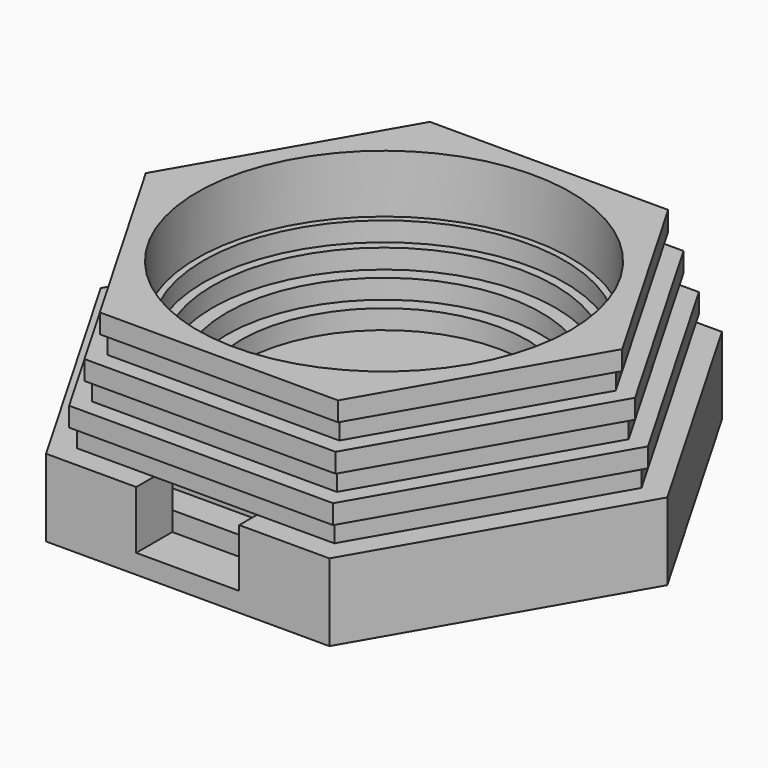
from build123d import *

# Parameters (mm, degrees)
PAD_DEPTH       = 9
SKETCH001_W     = 26.1
SKETCH001_H     = 34.4
POCKET_DEPTH    = 3
SKETCH002_R     = 22.22
PAD001_DEPTH    = 3
SKETCH003_R     = 24.44
PAD002_DEPTH    = 3
SKETCH004_R     = 26.6
PAD003_DEPTH    = 3
SKETCH005_R     = 28
PAD004_DEPTH    = 3
SKETCH006_R     = 29
PAD005_DEPTH    = 3
SKETCH007_R     = 29
PAD006_DEPTH    = 3
SKETCH008_R     = 29
PAD007_DEPTH    = 3
SKETCH009_W     = 17
SKETCH009_H     = 24
POCKET001_DEPTH = 3
SKETCH010_W     = 16
SKETCH010_H     = 9
POCKET002_DEPTH = 7


with BuildPart() as part:
    # Sketch → Pad (new body)
    with BuildSketch(Plane.XY):
        Polygon((44, 0), (22, 38.105118), (-22, 38.105118), (-44, 0), (-22, -38.105118), (22, -38.105118), align=None)
    extrude(amount=PAD_DEPTH)

    # Sketch001 (on Face8 of Pad) → Pocket (cut)
    with BuildSketch(Plane.XY.offset(9)):
        with Locations((0, -13.905118)):
            Rectangle(SKETCH001_W, SKETCH001_H)
    extrude(amount=-POCKET_DEPTH, mode=Mode.SUBTRACT)

    # Sketch002 (on Face5 of Pocket) → Pad001 (join)
    with BuildSketch(Plane.XY.offset(9)):
        Polygon((22, 38.105118), (-22, 38.105118), (-44, 0), (-22, -38.105118), (22, -38.105118), (44, 0), align=None)
        Circle(SKETCH002_R, mode=Mode.SUBTRACT)
    extrude(amount=PAD001_DEPTH)

    # Sketch003 (on Face14 of Pad001) → Pad002 (join)
    with BuildSketch(Plane.XY.offset(12)):
        Polygon((40, 0), (20, 34.641016), (-20, 34.641016), (-40, 0), (-20, -34.641016), (20, -34.641016), align=None)
        Circle(SKETCH003_R, mode=Mode.SUBTRACT)
    extrude(amount=PAD002_DEPTH)

    # Sketch004 (on Face21 of Pad002) → Pad003 (join)
    with BuildSketch(Plane.XY.offset(15)):
        Polygon((41, 0), (20.5, 35.507042), (-20.5, 35.507042), (-41, 0), (-20.5, -35.507042), (20.5, -35.507042), align=None)
        Circle(SKETCH004_R, mode=Mode.SUBTRACT)
    extrude(amount=PAD003_DEPTH)

    # Sketch005 (on Face28 of Pad003) → Pad004 (join)
    with BuildSketch(Plane.XY.offset(18)):
        Polygon((19, 32.908965), (-19, 32.908965), (-38, 0), (-19, -32.908965), (19, -32.908965), (38, 0), align=None)
        Circle(SKETCH005_R, mode=Mode.SUBTRACT)
    extrude(amount=PAD004_DEPTH)

    # Sketch006 (on Face35 of Pad004) → Pad005 (join)
    with BuildSketch(Plane.XY.offset(21)):
        Polygon((39, 0), (19.5, 33.774991), (-19.5, 33.774991), (-39, 0), (-19.5, -33.774991), (19.5, -33.774991), align=None)
        Circle(SKETCH006_R, mode=Mode.SUBTRACT)
    extrude(amount=PAD005_DEPTH)

    # Sketch007 (on Face42 of Pad005) → Pad006 (join)
    with BuildSketch(Plane.XY.offset(24)):
        Polygon((36, 0), (18, 31.176915), (-18, 31.176915), (-36, 0), (-18, -31.176915), (18, -31.176915), align=None)
        Circle(SKETCH007_R, mode=Mode.SUBTRACT)
    extrude(amount=PAD006_DEPTH)

    # Sketch008 (on Face49 of Pad006) → Pad007 (join)
    with BuildSketch(Plane.XY.offset(27)):
        Polygon((37, 0), (18.5, 32.04294), (-18.5, 32.04294), (-37, 0), (-18.5, -32.04294), (18.5, -32.04294), align=None)
        Circle(SKETCH008_R, mode=Mode.SUBTRACT)
    extrude(amount=PAD007_DEPTH)

    # Sketch009 (on Face74 of Pad007) → Pocket001 (cut)
    with BuildSketch(Plane.XY.offset(6)):
        with Locations((0, -8.705118)):
            Rectangle(SKETCH009_W, SKETCH009_H)
    extrude(amount=-POCKET001_DEPTH, mode=Mode.SUBTRACT)

    # Sketch010 (on Face12 of Pocket001) → Pocket002 (cut)
    with BuildSketch(Plane.XZ.offset(38.105118)):
        with Locations((0, 7.5)):
            Rectangle(SKETCH010_W, SKETCH010_H)
    extrude(amount=-POCKET002_DEPTH, mode=Mode.SUBTRACT)


solid = part.part
